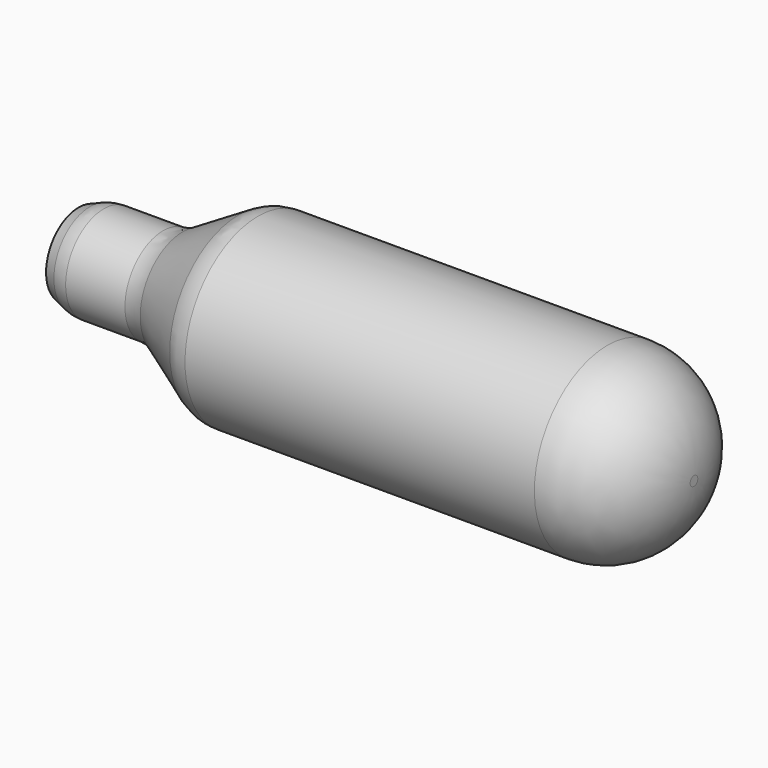
from build123d import *

# Parameters (mm, degrees)
F2_R = 9
F3_R = 4


with BuildPart() as f1:
    # F0 (on Front) → F1 (revolve)
    with BuildSketch(Plane.XZ):
        Polygon((0, 1.822479), (0, 0), (64.008, 0), (64.008, 9.4996), (57.568784, 9.4996), (17.568784, 9.4996), (9.874334, 4.96087), (1.873334, 4.96087), (0, 4.2418), align=None)
    revolve(axis=Axis((32.004, 0, 0), (1, 0, 0)))

    # F2
    f2_edges = [f1.edges().sort_by_distance(p)[0] for p in [
        (64.008, 0, -9.4996),
    ]]
    fillet(f2_edges, radius=F2_R)

    # F3
    f3_edges = [f1.edges().sort_by_distance(p)[0] for p in [
        (17.568784, 0, -9.4996),
        (9.874334, 0, -4.96087),
        (1.873334, 0, -4.96087),
    ]]
    fillet(f3_edges, radius=F3_R)


solid = f1.part
